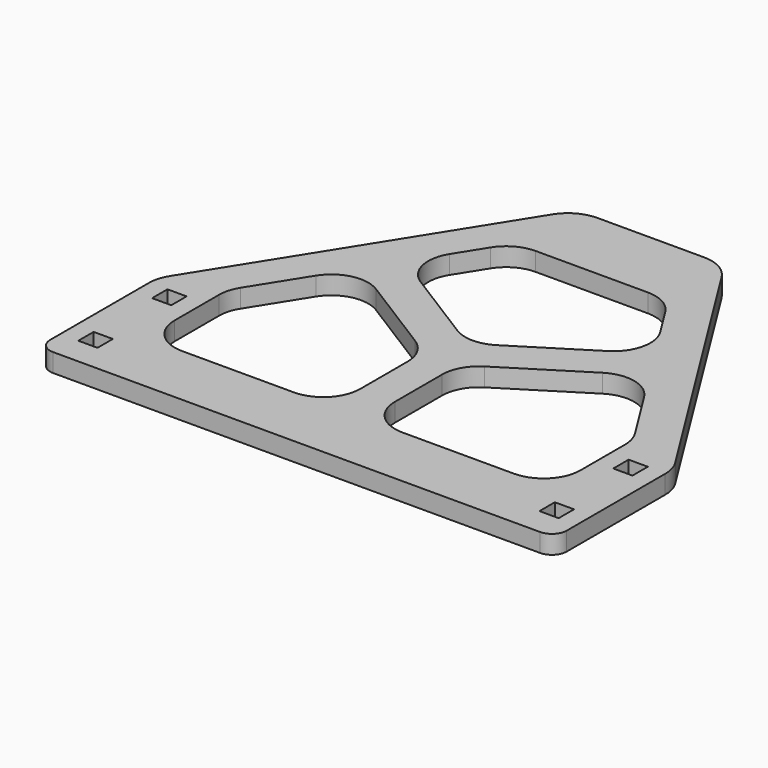
from build123d import *

# Parameters (mm, degrees)
F1_DEPTH = 6.35
F3_DEPTH = 25.4
F4_R     = 12.7
F5_R     = 12.7
F6_W     = 6.604
F6_H     = 6.604
F7_DEPTH = 25.4
F8_R     = 5.08


with BuildPart() as f1:
    # F0 (on Top) → F1 (new body)
    with BuildSketch(Plane.XY):
        Polygon((0, 0), (88.9, 0), (88.9, 51.132088), (25.4, 152.4), (0, 152.4), (-25.4, 152.4), (-88.9, 51.132088), (-88.9, 0), align=None)
    extrude(amount=F1_DEPTH)

    # F2 (on face) → F3 (cut)
    with BuildSketch(Plane.XY.offset(6.35)):
        Polygon((26.336802, 127), (0, 127), (-26.336802, 127), (-43.016926, 100.399034), (0, 73.42529), (43.016926, 100.399034), align=None)
        Polygon((-69.85, 57.606446), (-69.85, 22.130749), (-5.976504, 22.130749), (-5.976504, 62.182597), (-49.763763, 89.639379), align=None)
        Polygon((5.976504, 22.130749), (69.85, 22.130749), (69.85, 57.606446), (49.763763, 89.639379), (5.976504, 62.182597), align=None)
    extrude(amount=-F3_DEPTH, mode=Mode.SUBTRACT)

    # F4
    f4_edges = [f1.edges().sort_by_distance(p)[0] for p in [
        (-25.4, 152.4, 3.175),
        (25.4, 152.4, 3.175),
        (88.9, 51.132088, 3.175),
        (-88.9, 51.132088, 3.175),
    ]]
    fillet(f4_edges, radius=F4_R)

    # F5
    f5_edges = [f1.edges().sort_by_distance(p)[0] for p in [
        (-43.016926, 100.399034, 3.175),
        (0, 73.42529, 3.175),
        (-26.336802, 127, 3.175),
        (26.336802, 127, 3.175),
        (43.016926, 100.399034, 3.175),
        (-49.763763, 89.639379, 3.175),
        (-69.85, 57.606446, 3.175),
        (-69.85, 22.130749, 3.175),
        (-5.976504, 22.130749, 3.175),
        (-5.976504, 62.182597, 3.175),
        (49.763763, 89.639379, 3.175),
        (69.85, 57.606446, 3.175),
        (69.85, 22.130749, 3.175),
        (5.976504, 22.130749, 3.175),
        (5.976504, 62.182597, 3.175),
    ]]
    fillet(f5_edges, radius=F5_R)

    # F6 (on face) → F7 (cut)
    with BuildSketch(Plane.XY.offset(6.35)):
        with Locations((-79.375, 44.45)):
            Rectangle(F6_W, F6_H)
        with Locations((-79.375, 12.7)):
            Rectangle(F6_W, F6_H)
        with Locations((79.375, 12.7)):
            Rectangle(F6_W, F6_H)
        with Locations((79.375, 44.45)):
            Rectangle(F6_W, F6_H)
    extrude(amount=-F7_DEPTH, mode=Mode.SUBTRACT)

    # F8
    f8_edges = [f1.edges().sort_by_distance(p)[0] for p in [
        (-88.9, 0, 3.175),
        (88.9, 0, 3.175),
    ]]
    fillet(f8_edges, radius=F8_R)


solid = f1.part
